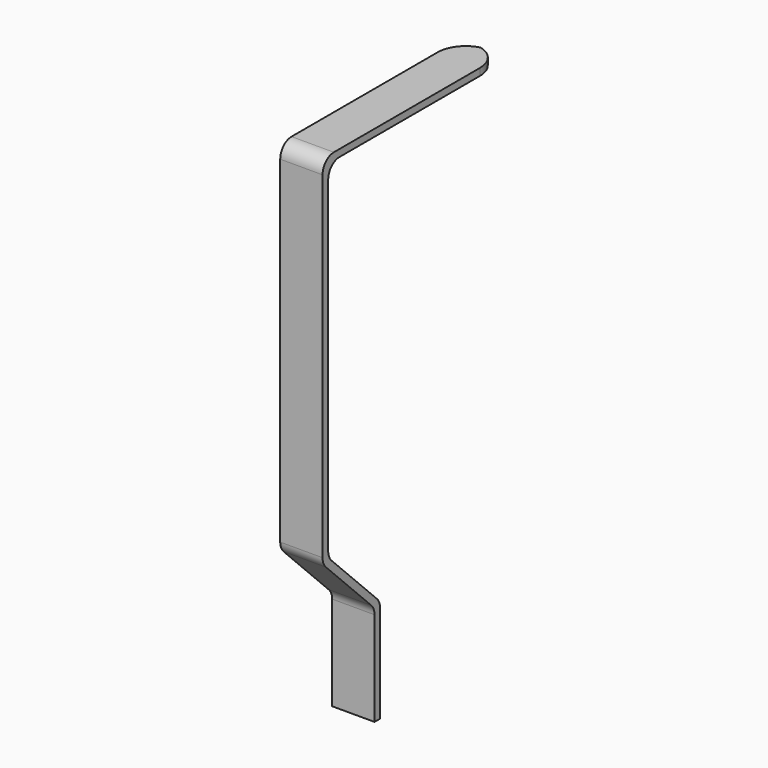
from build123d import *

# Parameters (mm, degrees)
F1_DEPTH = 1.5
F3_DEPTH = 25


with BuildPart() as f1:
    # F0 (on Right) → F1 (new body, symmetric)
    with BuildSketch(Plane.YZ):
        with BuildLine():
            Line((0, 6.685786), (0, 0))
            Line((0, 0), (0.5, 0))
            Line((0.5, 0), (0.5, 6.892786))
            ThreePointArc((0.5, 6.892786), (0.42388, 7.27547), (0.207107, 7.599893))
            Line((0.207107, 7.599893), (-3.807107, 11.614107))
            ThreePointArc((-3.807107, 11.614107), (-4.02388, 11.93853), (-4.1, 12.321214))
            Line((-4.1, 12.321214), (-4.1, 35.5))
            ThreePointArc((-4.1, 35.5), (-3.807107, 36.207107), (-3.1, 36.5))
            Line((-3.1, 36.5), (11.336, 36.5))
            Line((11.336, 36.5), (11.336, 37))
            Line((11.336, 37), (-3.6, 37))
            ThreePointArc((-3.6, 37), (-4.307107, 36.707107), (-4.6, 36))
            Line((-4.6, 36), (-4.6, 12.114214))
            ThreePointArc((-4.6, 12.114214), (-4.52388, 11.73153), (-4.307107, 11.407107))
            Line((-4.307107, 11.407107), (-0.292893, 7.392893))
            ThreePointArc((-0.292893, 7.392893), (-0.07612, 7.06847), (0, 6.685786))
        make_face()
    extrude(amount=F1_DEPTH, both=True)

    # F2 (on face) → F3 (cut)
    with BuildSketch(Plane.XY.offset(37)):
        with BuildLine():
            ThreePointArc((-1.5, 9.336), (-1.081139, 10.560745), (0, 11.272492))
            ThreePointArc((0, 11.272492), (1.081139, 10.560745), (1.5, 9.336))
            Line((1.5, 9.336), (1.5, 11.336))
            Line((1.5, 11.336), (-1.5, 11.336))
            Line((-1.5, 11.336), (-1.5, 9.336))
        make_face()
    extrude(amount=-F3_DEPTH, mode=Mode.SUBTRACT)


solid = f1.part
